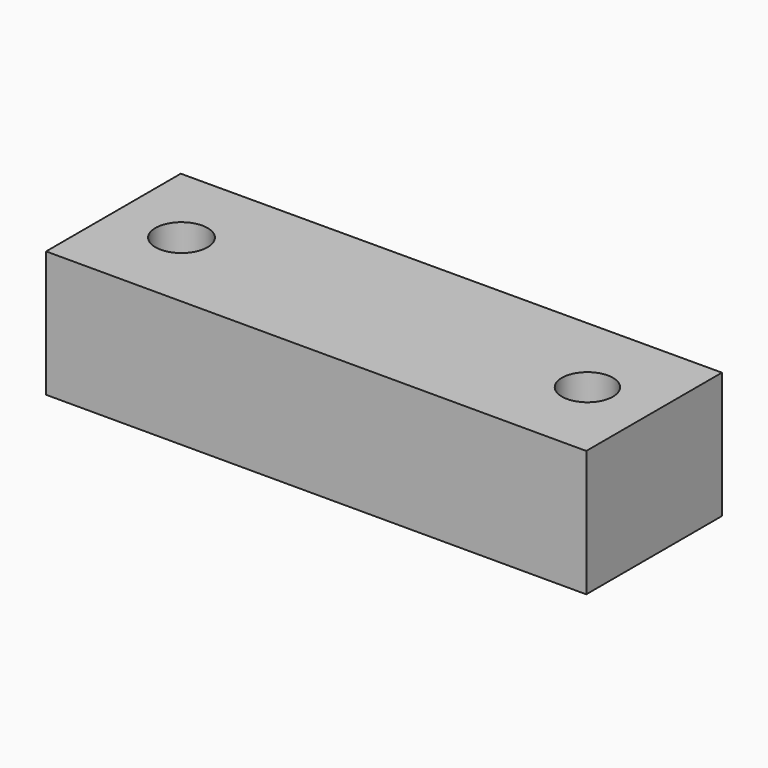
from build123d import *

# Parameters (mm, degrees)
F0_R     = 6.203235
F0_R_2   = 6.06846
F1_DEPTH = 30


with BuildPart() as f1:
    # F0 (on Top) → F1 (new body)
    with BuildSketch(Plane.XY):
        Polygon((76.988041, 28.061062), (-51.373329, 27.773257), (-51.373329, -12.231745), (76.988041, -12.231745), align=None)
        with Locations((-35.212044, 7.788824)):
            Circle(F0_R, mode=Mode.SUBTRACT)
        with Locations((61.159442, 7.896914)):
            Circle(F0_R_2, mode=Mode.SUBTRACT)
    extrude(amount=F1_DEPTH)


solid = f1.part
